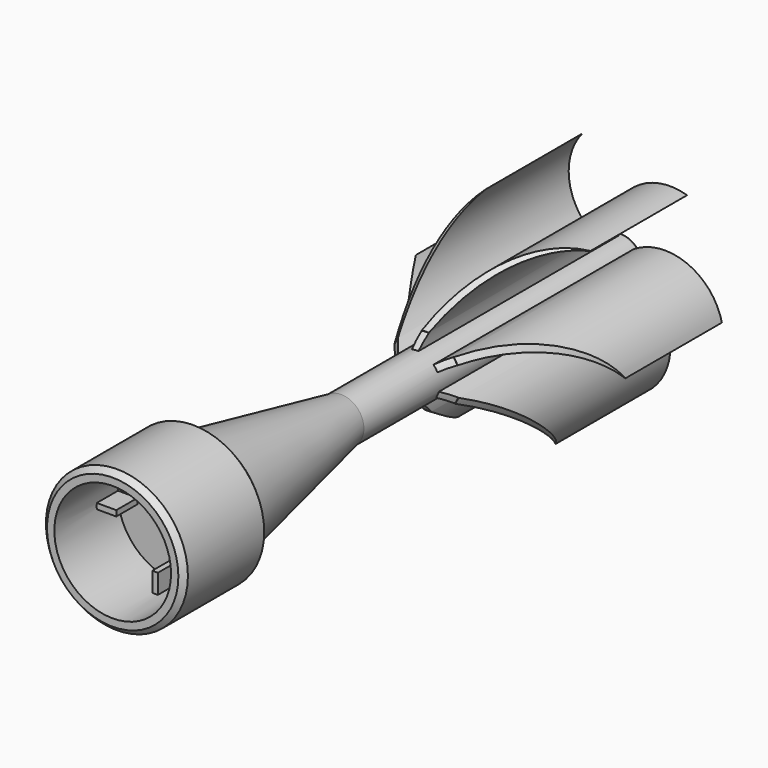
from build123d import *

# Parameters (mm, degrees)
SKETCH_R              = 13.394599
PAD_DEPTH             = 20
SKETCH001_R           = 11.012538
POCKET_DEPTH          = 15
SKETCH002_W           = 1.057196
SKETCH002_H           = 3.730715
PAD001_DEPTH          = 5
POLARPATTERN_COUNT    = 4
CHAMFER_SIZE          = 1
SKETCH003_R           = 11.078175
PAD002_DEPTH          = 100
CHAMFER001_SIZE       = 1
FILLET_R              = 1
PAD003_DEPTH          = 45
POLARPATTERN001_COUNT = 6
FILLET001_R           = 0.5
CHAMFER002_SIZE       = 2.2


with BuildPart() as part:
    # Sketch → Pad (new body)
    with BuildSketch(Plane.XZ):
        Circle(SKETCH_R)
    extrude(amount=PAD_DEPTH)

    # Sketch001 (on Face3 of Pad) → Pocket (cut)
    with BuildSketch(Plane.XZ.offset(20)):
        Circle(SKETCH001_R)
    extrude(amount=-POCKET_DEPTH, mode=Mode.SUBTRACT)

    # Sketch002 (on Face5 of Pocket) → Pad001 (join)
    with BuildSketch(Plane.XZ.offset(5)):
        with Locations((0, 9.184551)):
            Rectangle(SKETCH002_W, SKETCH002_H)
    pad001 = extrude(amount=PAD001_DEPTH)

    # PolarPattern: Pad001 ×4 about axis
    polarpattern_axis = Axis((0, -5, 0), (0, -1, 0))
    for i in range(1, POLARPATTERN_COUNT):
        add(pad001.rotate(polarpattern_axis, i * 360 / POLARPATTERN_COUNT))

    # Chamfer
    chamfer_edges = [part.edges().sort_by_distance(p)[0] for p in [
        (-13.394599, -20, 0),
    ]]
    chamfer(chamfer_edges, length=CHAMFER_SIZE)

    # Sketch003 (on Face3 of Chamfer) → Pad002 (join)
    with BuildSketch(Plane(origin=(0, 0, 0), x_dir=(1, 0, 0), z_dir=(0, 1, 0))):
        Circle(SKETCH003_R)
    extrude(amount=PAD002_DEPTH)

    # Sketch004 → Groove (revolve, cut)
    with BuildSketch(Plane.YZ):
        Polygon((0, 18.834272), (0, 10.974518), (33.906814, 4.283206), (106.73294, 4.283206), (106.73294, 18.834272), align=None)
    revolve(axis=Axis((0, 0, 0), (0, 1, 0)), mode=Mode.SUBTRACT)

    # Chamfer001
    chamfer001_edges = [part.edges().sort_by_distance(p)[0] for p in [
        (-13.394599, 0, 0),
    ]]
    chamfer(chamfer001_edges, length=CHAMFER001_SIZE)

    # Fillet
    fillet_edges = [part.edges().sort_by_distance(p)[0] for p in [
        (0, 0, -10.974518),
    ]]
    fillet(fillet_edges, radius=FILLET_R)

    # Sketch005 → Pad003 (join)
    with BuildSketch(Plane.XZ.offset(-99)):
        with BuildLine():
            ThreePointArc((-6.577436, 19.025167), (-8.477268, 8.148934), (0, 1.075198))
            Line((0, 1.075198), (0, 0))
            ThreePointArc((-6.577436, 19.025167), (-9.449183, 7.38277), (0, 0))
        make_face()
    pad003 = extrude(amount=PAD003_DEPTH)

    # PolarPattern001: Pad003 ×6 about axis
    polarpattern001_axis = Axis((0, 99, 0), (0, -1, 0))
    for i in range(1, POLARPATTERN001_COUNT):
        add(pad003.rotate(polarpattern001_axis, i * 360 / POLARPATTERN001_COUNT))

    # Fillet001
    fillet001_edges = [part.edges().sort_by_distance(p)[0] for p in [
        (0, 100, -4.283206),
    ]]
    fillet(fillet001_edges, radius=FILLET001_R)

    # Sketch006 → Groove001 (revolve, cut)
    with BuildSketch(Plane.XY):
        Polygon((5.484476, 52.280869), (20.958712, 77.57209), (20.958712, 52.280869), align=None)
    revolve(axis=Axis((0, 0, 0), (0, 1, 0)), mode=Mode.SUBTRACT)

    # Chamfer002
    chamfer002_edges = [part.edges().sort_by_distance(p)[0] for p in [
        (-0.512005, 54, 4.252494),
        (-3.887199, 54, 1.798759),
        (3.501371, 54, 2.467034),
        (-3.501371, 54, -2.467034),
        (0.385828, 54, -4.265793),
        (3.887199, 54, -1.798759),
    ]]
    chamfer(chamfer002_edges, length=CHAMFER002_SIZE)


solid = part.part
